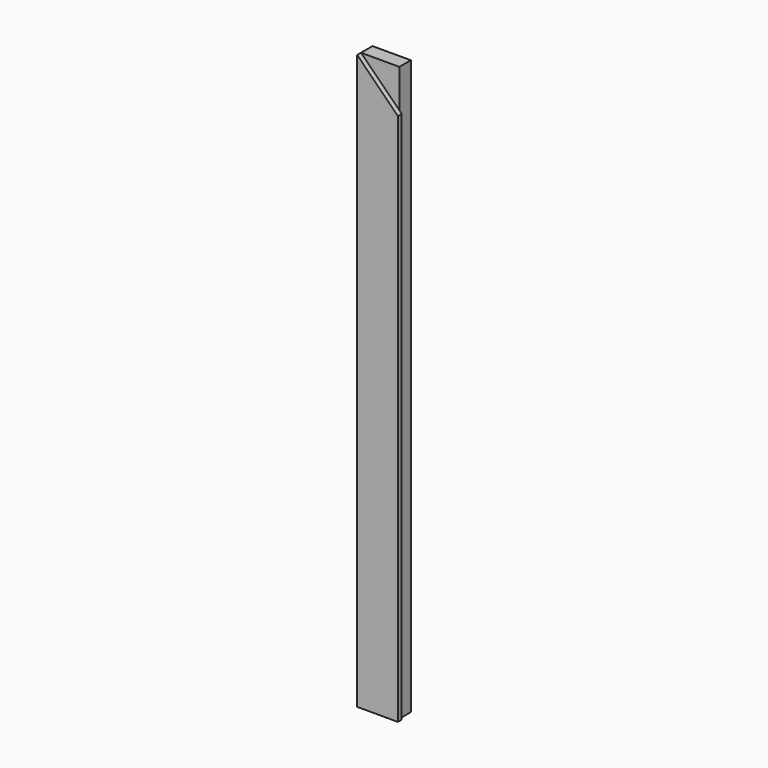
from build123d import *

# Parameters (mm, degrees)
F1_DEPTH = 762
F3_DEPTH = 6.35


with BuildPart() as f1:
    # F0 (on Top) → F1 (new body)
    with BuildSketch(Plane.XY):
        Polygon((23.8125, -6.35), (23.8125, 12.7), (-26.9875, 12.7), (-26.9875, -12.7), (26.9875, -12.7), (26.9875, -6.35), align=None)
    extrude(amount=F1_DEPTH)

    # F2 (on face) → F3 (cut)
    with BuildSketch(Plane.XZ.offset(12.7)):
        Polygon((26.9875, 762), (-26.9875, 762), (26.9875, 708.025), align=None)
    extrude(amount=-F3_DEPTH, mode=Mode.SUBTRACT)


solid = f1.part
